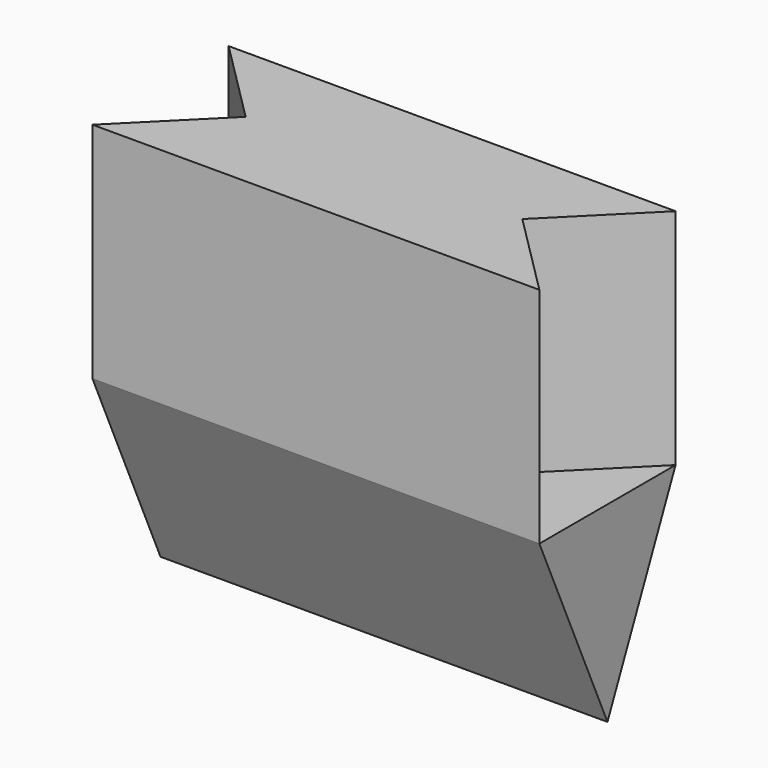
from build123d import *

# Parameters (mm, degrees)
F1_DEPTH = 266.7
F3_DEPTH = 533.4


with BuildPart() as f1:
    # F0 (on Top) → F1 (new body)
    with BuildSketch(Plane.XY):
        Polygon((0, 101.6), (-533.4, 101.6), (-431.8, 0), (-533.4, -101.6), (0, -101.6), (-101.6, 0), align=None)
    extrude(amount=F1_DEPTH)

    # F2 (on Right) → F3 (join)
    with BuildSketch(Plane.YZ):
        Polygon((0, -228.6), (101.6, 0), (-101.6, 0), align=None)
    extrude(amount=-F3_DEPTH)


solid = f1.part
